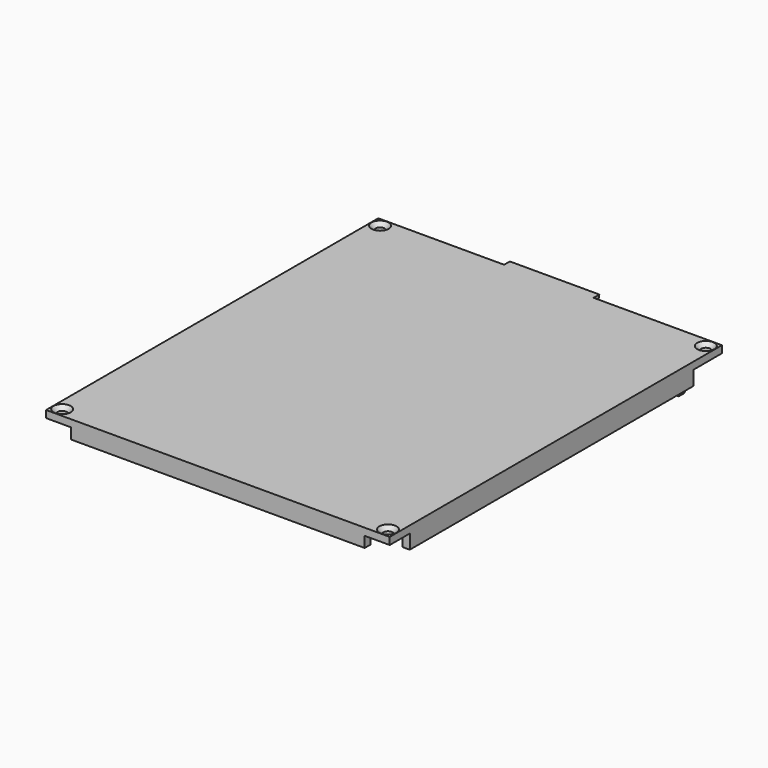
from build123d import *

# Parameters (mm, degrees)
SKETCH_W        = 96
SKETCH_H        = 116
PAD_DEPTH       = 2
SKETCH001_R     = 1.3
POCKET_DEPTH    = 2.001
CHAMFER_SIZE    = 1.1
SKETCH003_W     = 25
SKETCH003_H     = 50
PAD001_DEPTH    = 11
SKETCH004_W     = 25
SKETCH004_H     = 13
PAD002_DEPTH    = 2
POCKET001_DEPTH = 8.8
SKETCH008_W     = 12.5
SKETCH008_H     = 12
POCKET004_DEPTH = 1.3
SKETCH009_W     = 37.451334
SKETCH009_H     = 40.177643
POCKET005_DEPTH = 7
SKETCH010_W     = 12
SKETCH010_H     = 1.2
PAD003_DEPTH    = 12.5
SKETCH011_W     = 2
SKETCH011_H     = 3.8
PAD004_DEPTH    = 8
POCKET006_DEPTH = 60.155704
PAD005_DEPTH    = 8
SKETCH015_W     = 5.7
SKETCH015_H     = 11.2
PAD006_DEPTH    = 1.2
SKETCH016_W     = 31
SKETCH016_H     = 31
PAD007_DEPTH    = 2
SKETCH017_W     = 82
SKETCH017_H     = 2
PAD008_DEPTH    = 3
PAD009_DEPTH    = 28
PAD010_DEPTH    = 28
SKETCH020_W     = 2
SKETCH020_H     = 99
PAD011_DEPTH    = 4


with BuildPart() as part:
    # Sketch → Pad (new body)
    with BuildSketch(Plane.XY):
        with Locations((0, 58)):
            Rectangle(SKETCH_W, SKETCH_H)
    extrude(amount=PAD_DEPTH)

    # Sketch001 (on Face6 of Pad) → Pocket (cut, through all)
    with BuildSketch(Plane.XY.offset(2)):
        with Locations((-45.5, 113.5)):
            Circle(SKETCH001_R)
        with Locations((45.5, 113.5)):
            Circle(SKETCH001_R)
        with Locations((45.5, 2.5)):
            Circle(SKETCH001_R)
        with Locations((-45.5, 2.5)):
            Circle(SKETCH001_R)
    extrude(amount=-POCKET_DEPTH, mode=Mode.SUBTRACT)

    # Chamfer
    chamfer_edges = [part.edges().sort_by_distance(p)[0] for p in [
        (-46.8, 113.5, 2),
        (44.2, 113.5, 2),
        (44.2, 2.5, 2),
        (-46.8, 2.5, 2),
    ]]
    chamfer(chamfer_edges, length=CHAMFER_SIZE)

    # Sketch003 → Pad001 (join)
    with BuildSketch(Plane(origin=(0, 0, 0), x_dir=(1, 0, 0), z_dir=(0, 0, -1))):
        with Locations((-0.345296, -91)):
            Rectangle(SKETCH003_W, SKETCH003_H)
    extrude(amount=PAD001_DEPTH)

    # Sketch004 (on Face12 of Pad001) → Pad002 (join)
    with BuildSketch(Plane(origin=(0, 116, 0), x_dir=(-1, 0, 0), z_dir=(0, 1, 0))):
        with Locations((0.345296, -4.5)):
            Rectangle(SKETCH004_W, SKETCH004_H)
    extrude(amount=PAD002_DEPTH)

    # Sketch005 (on Face24 of Pad002) → Pocket001 (cut)
    with BuildSketch(Plane(origin=(0, 0, -11), x_dir=(1, 0, 0), z_dir=(0, 0, -1))):
        Polygon((-9.75, -69), (-9.75, -104), (-4, -104), (-4, -106), (-6.25, -106), (-6.25, -118), (6.25, -118), (6.25, -106), (4, -106), (4, -104), (9.75, -104), (9.75, -69), (5.5, -69), (5.5, -70.3), (3.5, -70.3), (3.5, -69), (-3.5, -69), (-3.5, -70.3), (-5.5, -70.3), (-5.5, -69), align=None)
    extrude(amount=-POCKET001_DEPTH, mode=Mode.SUBTRACT)

    # Sketch008 (on Face26 of Pocket001) → Pocket004 (cut)
    with BuildSketch(Plane(origin=(0, 0, -2.2), x_dir=(1, 0, 0), z_dir=(0, 0, -1))):
        with Locations((0, -112)):
            Rectangle(SKETCH008_W, SKETCH008_H)
    extrude(amount=-POCKET004_DEPTH, mode=Mode.SUBTRACT)

    # Sketch009 (on Face24 of Pocket004) → Pocket005 (cut)
    with BuildSketch(Plane(origin=(0, 0, -11), x_dir=(1, 0, 0), z_dir=(0, 0, -1))):
        with Locations((-0.643557, -83.911179)):
            Rectangle(SKETCH009_W, SKETCH009_H)
    extrude(amount=-POCKET005_DEPTH, mode=Mode.SUBTRACT)

    # Sketch010 (on Face29 of Pocket005) → Pad003 (join)
    with BuildSketch(Plane.YZ.offset(-6.25)):
        with Locations((112, -10.4)):
            Rectangle(SKETCH010_W, SKETCH010_H)
    extrude(amount=PAD003_DEPTH)

    # Sketch011 (on Face51 of Pad003) → Pad004 (join)
    with BuildSketch(Plane.YZ.offset(-4)):
        with Locations((105, -9.1)):
            Rectangle(SKETCH011_W, SKETCH011_H)
    extrude(amount=PAD004_DEPTH)

    # Sketch012 (on Face23 of Pad004) → Pocket006 (cut, through all)
    with BuildSketch(Plane.YZ.offset(12.154704)):
        Polygon((118, 2), (113.889458, -14.486482), (118, -14.486482), align=None)
    extrude(amount=-POCKET006_DEPTH, mode=Mode.SUBTRACT)

    # Sketch014 (on Face4 of Pocket006) → Pad005 (join)
    with BuildSketch(Plane(origin=(0, 0, 0), x_dir=(1, 0, 0), z_dir=(0, 0, -1))):
        Polygon((-4.85, -42.8), (4.85, -42.8), (4.85, -54), (6.85, -54), (6.85, -63), (4.85, -63), (4.85, -56), (2.85, -56), (2.85, -44.8), (-2.85, -44.8), (-2.85, -49.2), (-3.45, -49.2), (-3.45, -51), (-2.85, -51), (-2.85, -56), (-4.85, -56), (-4.85, -63), (-6.85, -63), (-6.85, -54), (-4.85, -54), align=None)
    extrude(amount=PAD005_DEPTH)

    # Sketch015 (on Face4 of Pad005) → Pad006 (join)
    with BuildSketch(Plane(origin=(0, 0, 0), x_dir=(1, 0, 0), z_dir=(0, 0, -1))):
        with Locations((0, -50.4)):
            Rectangle(SKETCH015_W, SKETCH015_H)
    extrude(amount=PAD006_DEPTH)

    # Sketch016 (on Face4 of Pad006) → Pad007 (join)
    with BuildSketch(Plane(origin=(0, 0, 0), x_dir=(1, 0, 0), z_dir=(0, 0, -1))):
        with Locations((27.654704, -81.5)):
            Rectangle(SKETCH016_W, SKETCH016_H)
        Polygon((14.154704, -68), (14.154704, -81), (15.154704, -81), (15.154704, -82), (14.154704, -82), (14.154704, -95), (27.154704, -95), (27.154704, -94), (28.154704, -94), (28.154704, -95), (41.154704, -95), (41.154704, -82), (40.154704, -82), (40.154704, -81), (41.154704, -81), (41.154704, -68), (28.154704, -68), (28.154704, -69), (27.154704, -69), (27.154704, -68), align=None, mode=Mode.SUBTRACT)
    extrude(amount=PAD007_DEPTH)

    # Sketch017 (on Face4 of Pad007) → Pad008 (join)
    with BuildSketch(Plane(origin=(0, 0, 0), x_dir=(1, 0, 0), z_dir=(0, 0, -1))):
        with Locations((0, -1)):
            Rectangle(SKETCH017_W, SKETCH017_H)
    extrude(amount=PAD008_DEPTH)

    # Sketch018 (on Face10 of Pad008) → Pad009 (join)
    with BuildSketch(Plane.YZ.offset(12.154704)):
        Polygon((116, 0), (112.758736, -11), (110.758736, -11), (114, 0), align=None)
    extrude(amount=PAD009_DEPTH)

    # Sketch019 (on Face17 of Pad009) → Pad010 (join)
    with BuildSketch(Plane(origin=(-12.845296, 0, 0), x_dir=(0, -1, 0), z_dir=(-1, 0, 0))):
        Polygon((-116, 0), (-112.758736, -11), (-110.758736, -11), (-114, 0), align=None)
    extrude(amount=PAD010_DEPTH)

    # Sketch020 (on Face4 of Pad010) → Pad011 (join)
    with BuildSketch(Plane(origin=(0, 0, 0), x_dir=(1, 0, 0), z_dir=(0, 0, -1))):
        with Locations((-47, -56.5)):
            Rectangle(SKETCH020_W, SKETCH020_H)
        with Locations((47, -56.5)):
            Rectangle(SKETCH020_W, SKETCH020_H)
    extrude(amount=PAD011_DEPTH)


solid = part.part
